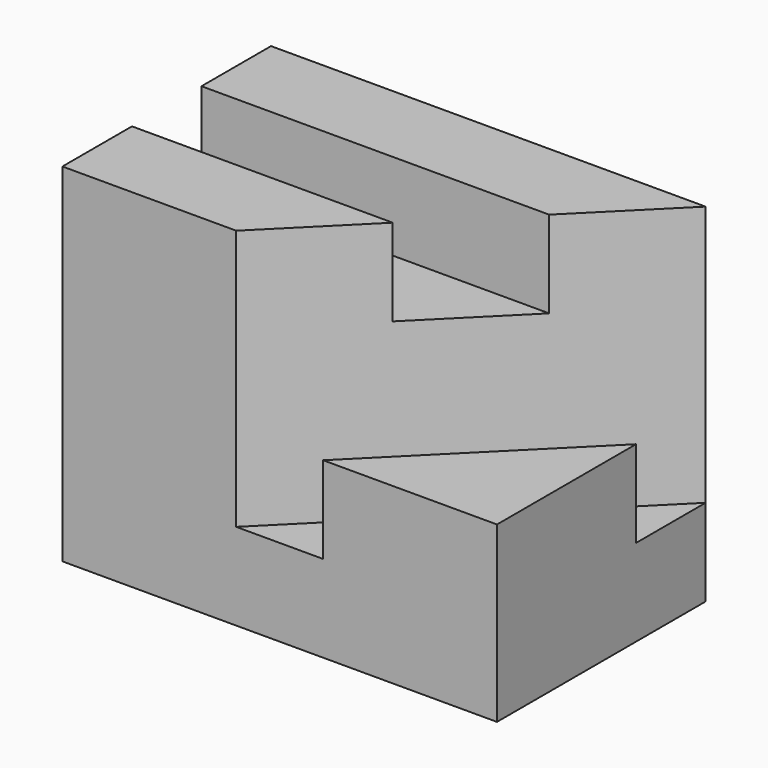
from build123d import *

# Parameters (mm, degrees)
SKETCH_W     = 50
SKETCH_H     = 30
PAD_DEPTH    = 10
PAD001_DEPTH = 10
PAD002_DEPTH = 30
SKETCH003_W  = 10
SKETCH003_H  = 10
POCKET_DEPTH = 50.001


with BuildPart() as part:
    # Sketch → Pad (new body)
    with BuildSketch(Plane.XY):
        Rectangle(SKETCH_W, SKETCH_H)
    extrude(amount=PAD_DEPTH)

    # Sketch001 (on Face6 of Pad) → Pad001 (join)
    with BuildSketch(Plane.XY.offset(10)):
        Polygon((25, -15), (25, 5), (5, -15), align=None)
    extrude(amount=PAD001_DEPTH)

    # Sketch002 (on Face3 of Pad001) → Pad002 (join)
    with BuildSketch(Plane.XY.offset(10)):
        Polygon((-5, -15), (-25, -15), (-25, 15), (25, 15), align=None)
    extrude(amount=PAD002_DEPTH)

    # Sketch003 (on Face8 of Pad002) → Pocket (cut, through all)
    with BuildSketch(Plane(origin=(-25, 0, 0), x_dir=(0, -1, 0), z_dir=(-1, 0, 0))):
        with Locations((0, 35)):
            Rectangle(SKETCH003_W, SKETCH003_H)
    extrude(amount=-POCKET_DEPTH, mode=Mode.SUBTRACT)


solid = part.part
